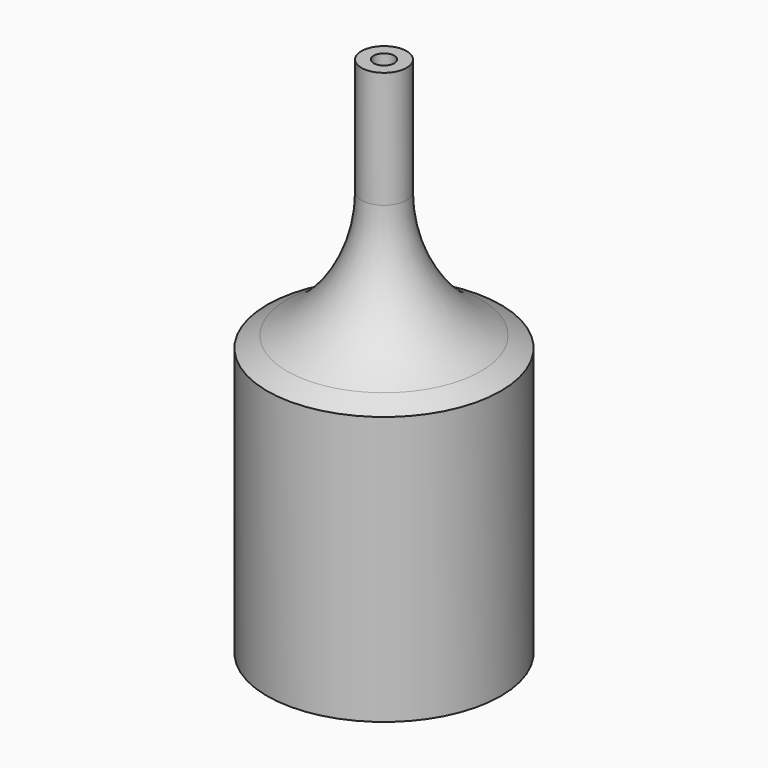
from build123d import *


with BuildPart() as f2:
    # F0 (on Front) → F2 (revolve)
    with BuildSketch(Plane.XZ):
        with BuildLine():
            Line((-28.4, 0), (-25.4, 0))
            Line((-25.4, 0), (-25.4, 63.5))
            Line((-25.4, 63.5), (-22.121717, 65.318087))
            ThreePointArc((-22.121717, 65.318087), (-7.769887, 79.303451), (-2.5, 98.637197))
            Line((-2.5, 98.637197), (-2.5, 127))
            Line((-2.5, 127), (-5.5, 127))
            Line((-5.5, 127), (-5.5, 98.637197))
            ThreePointArc((-5.5, 98.637197), (-10.354936, 80.825794), (-23.5767, 67.941639))
            Line((-23.5767, 67.941639), (-28.4, 65.266708))
            Line((-28.4, 65.266708), (-28.4, 0))
        make_face()
    revolve(axis=Axis((0, 0, 64.849392), (0, 0, 1)))


solid = f2.part
